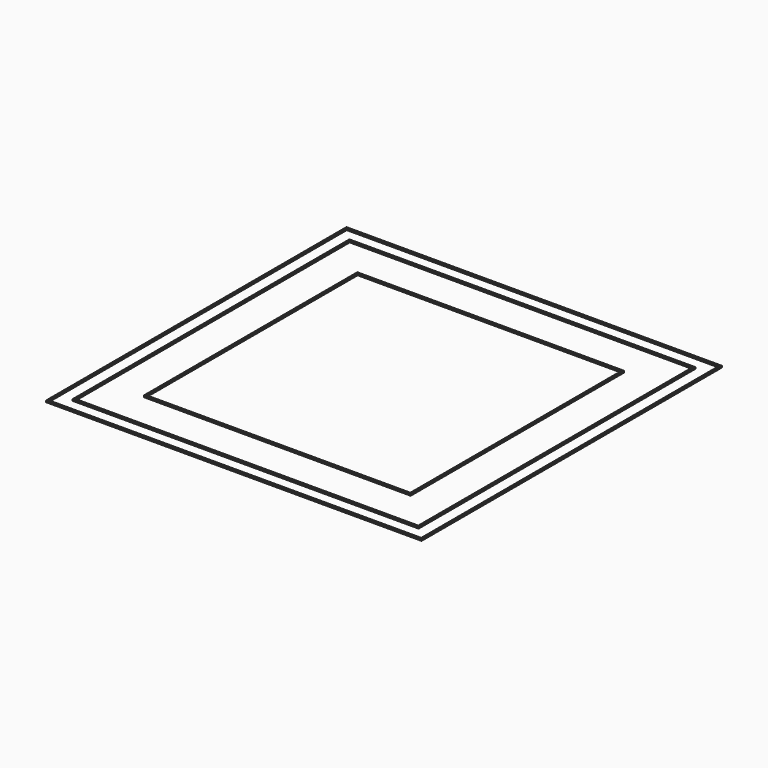
from build123d import *

# Parameters (mm, degrees)
F0_W     = 142.4
F0_H     = 142.4
F0_W_2   = 141.2
F0_H_2   = 141.2
F1_DEPTH = 0.6
F0_W_3   = 101.2
F0_H_3   = 101.2
F0_W_4   = 100
F0_H_4   = 100
F0_W_5   = 131.2
F0_H_5   = 131.2
F0_W_6   = 130
F0_H_6   = 130


with BuildPart() as f1:
    # F0 (on Top) → F1 (new body)
    with BuildSketch(Plane.XY):
        Rectangle(F0_W, F0_H)
        Rectangle(F0_W_2, F0_H_2, mode=Mode.SUBTRACT)
        Rectangle(F0_W, F0_H)
        Rectangle(F0_W_2, F0_H_2, mode=Mode.SUBTRACT)
    extrude(amount=F1_DEPTH)


with BuildPart() as f1b:
    # F0 (on Top) → F1, piece 2 (new body)
    with BuildSketch(Plane.XY):
        Rectangle(F0_W_3, F0_H_3)
        Rectangle(F0_W_4, F0_H_4, mode=Mode.SUBTRACT)
    extrude(amount=F1_DEPTH)


with BuildPart() as f1c:
    # F0 (on Top) → F1, piece 3 (new body)
    with BuildSketch(Plane.XY):
        Rectangle(F0_W_5, F0_H_5)
        Rectangle(F0_W_6, F0_H_6, mode=Mode.SUBTRACT)
    extrude(amount=F1_DEPTH)


solid = Compound([f1.part, f1b.part, f1c.part])
